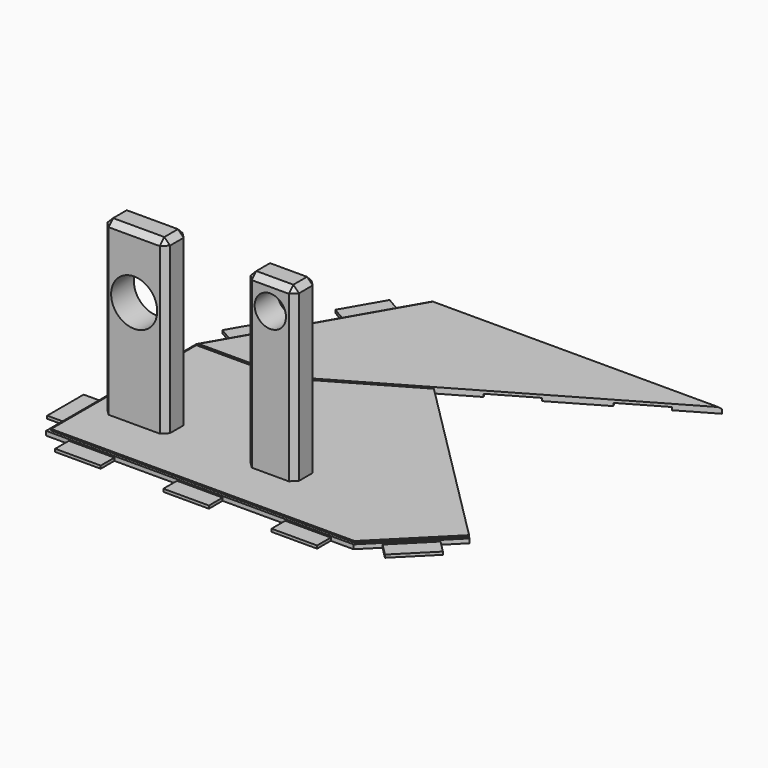
from build123d import *

# Parameters (mm, degrees)
PAD002_DEPTH    = 1
POCKET002_DEPTH = 0.5
POCKET003_DEPTH = 0.25
POCKET004_DEPTH = 0.25
SKETCH009_W     = 8.5
SKETCH009_H     = 5
SKETCH009_W_2   = 11
PAD003_DEPTH    = 30
SKETCH010_R     = 4.05
SKETCH010_R_2   = 2.75
POCKET005_DEPTH = 54.281375499
SKETCH011_W     = 8
SKETCH011_H     = 3
SKETCH011_W_2   = 3
SKETCH011_H_2   = 8
PAD004_DEPTH    = 0.5
CHAMFER001_SIZE = 0.25
CHAMFER002_SIZE = 1


with BuildPart() as part:
    # Sketch005 (on Face1 of Binder) → Pad002 (new body)
    with BuildSketch(Plane(origin=(0, 0, -13), x_dir=(1, 0, 0), z_dir=(0, 0, -1))):
        Polygon((52, -58.333333), (40.686291501, -47.019624501), (-13.313708499, -47.019624501), (-13.313708499, -80.0117772123), (4, -110), (55, -110), (20.3427218622, -89.9906111378), align=None)
    extrude(amount=-PAD002_DEPTH)

    # Sketch006 (on Face8 of Pad002) → Pocket002 (cut)
    with BuildSketch(Plane(origin=(0, 0, -13), x_dir=(1, 0, 0), z_dir=(0, 0, -1))):
        Polygon((47.0856078708, -63.2477251292), (44.9289321881, -61.0910494466), (39.2013672605, -66.8186143742), (41.3580429431, -68.9752900569), align=None)
        Polygon((30.9846789191, -79.3486540809), (28.8280032365, -77.1919783983), (23.1004383089, -82.9195433259), (25.2571139915, -85.0762190085), align=None)
        Polygon((26.3615984185, -93.4656111378), (24.8365984185, -96.1069886193), (31.8514041892, -100.1569886193), (33.3764041892, -97.5156111378), align=None)
        Polygon((48.9811234437, -106.525), (41.966317673, -102.475), (40.441317673, -105.1163774815), (47.4561234437, -109.1663774815), align=None)
    extrude(amount=-POCKET002_DEPTH, mode=Mode.SUBTRACT)

    # Sketch007 (on Face5 of Pocket002) → Pocket003 (cut)
    with BuildSketch(Plane.XY.offset(-12)):
        Polygon((52, 58.333333), (40.686291501, 47.019624501), (-13.313708499, 47.019624501), (-13.313708499, 80.0117772123), (4, 110), (4.5773502692, 110), (-12.813708499, 79.8778026161), (-12.813708499, 47.519624501), (40.4791847198, 47.519624501), (51.6464466094, 58.6868863906), align=None)
    extrude(amount=-POCKET003_DEPTH, mode=Mode.SUBTRACT)

    # Sketch008 (on Face28 of Pocket003) → Pocket004 (cut)
    with BuildSketch(Plane.XY.offset(-12)):
        Polygon((20.3427218622, 89.9906111378), (2.8268236955, 79.8778026161), (-12.813708499, 79.8778026161), (-12.813708499, 79.3778026161), (2.9607982917, 79.3778026161), (20.708747266, 89.624585734), align=None)
    extrude(amount=-POCKET004_DEPTH, mode=Mode.SUBTRACT)

    # Sketch009 (on Face27 of Pocket004) → Pad003 (join)
    with BuildSketch(Plane.XY.offset(-12)):
        with Locations((19.106291501, 58.219624501)):
            Rectangle(SKETCH009_W, SKETCH009_H)
        with Locations((-4.803708499, 58.219624501)):
            Rectangle(SKETCH009_W_2, SKETCH009_H)
    extrude(amount=PAD003_DEPTH)

    # Sketch010 (on Face11 of Pad003) → Pocket005 (cut, through all)
    with BuildSketch(Plane.XZ.offset(-55.719624501)):
        with Locations((-4.803708499, 6.8)):
            Circle(SKETCH010_R)
        with Locations((19.106291501, 13.25)):
            Circle(SKETCH010_R_2)
    extrude(amount=-POCKET005_DEPTH, mode=Mode.SUBTRACT)

    # Sketch011 (on Face25 of Pocket005) → Pad004 (join)
    with BuildSketch(Plane(origin=(0, 0, -13), x_dir=(1, 0, 0), z_dir=(0, 0, -1))):
        with Locations((-5.313708499, -45.519624501)):
            Rectangle(SKETCH011_W, SKETCH011_H)
        with Locations((13.686291501, -45.519624501)):
            Rectangle(SKETCH011_W, SKETCH011_H)
        with Locations((32.686291501, -45.519624501)):
            Rectangle(SKETCH011_W, SKETCH011_H)
        with Locations((-14.813708499, -55.019624501)):
            Rectangle(SKETCH011_W_2, SKETCH011_H_2)
        with Locations((-14.813708499, -72.0117772123)):
            Rectangle(SKETCH011_W_2, SKETCH011_H_2)
        Polygon((-10.813708499, -84.3419042312), (-6.813708499, -91.2701074615), (-9.4117847103, -92.7701074615), (-13.4117847103, -85.8419042312), align=None)
        Polygon((-2.5, -98.7416697508), (-5.0980762114, -100.2416697508), (-1.0980762114, -107.1698729811), (1.5, -105.6698729811), align=None)
        Polygon((49.1715728753, -55.5049058753), (43.5147186258, -49.8480516258), (45.6360389693, -47.7267312822), (51.2928932188, -53.3835855317), align=None)
    extrude(amount=-PAD004_DEPTH)

    # Chamfer001
    chamfer001_edges = [part.edges().sort_by_distance(p)[0] for p in [
        (29.788675, 110, -12),
    ]]
    chamfer(chamfer001_edges, length=CHAMFER001_SIZE)

    # Chamfer002
    chamfer002_edges = [part.edges().sort_by_distance(p)[0] for p in [
        (-10.303708, 60.719625, 3),
        (-4.803708, 60.719625, 18),
        (0.696292, 60.719625, 3),
        (0.696292, 58.219625, 18),
        (-4.803708, 55.719625, 18),
        (-10.303708, 58.219625, 18),
        (14.856292, 60.719625, 3),
        (23.356292, 60.719625, 3),
        (19.106292, 60.719625, 18),
        (23.356292, 58.219625, 18),
        (19.106292, 55.719625, 18),
        (14.856292, 58.219625, 18),
        (-10.303708, 55.719625, 3),
        (0.696292, 55.719625, 3),
        (14.856292, 55.719625, 3),
        (23.356292, 55.719625, 3),
    ]]
    chamfer(chamfer002_edges, length=CHAMFER002_SIZE)


solid = part.part
